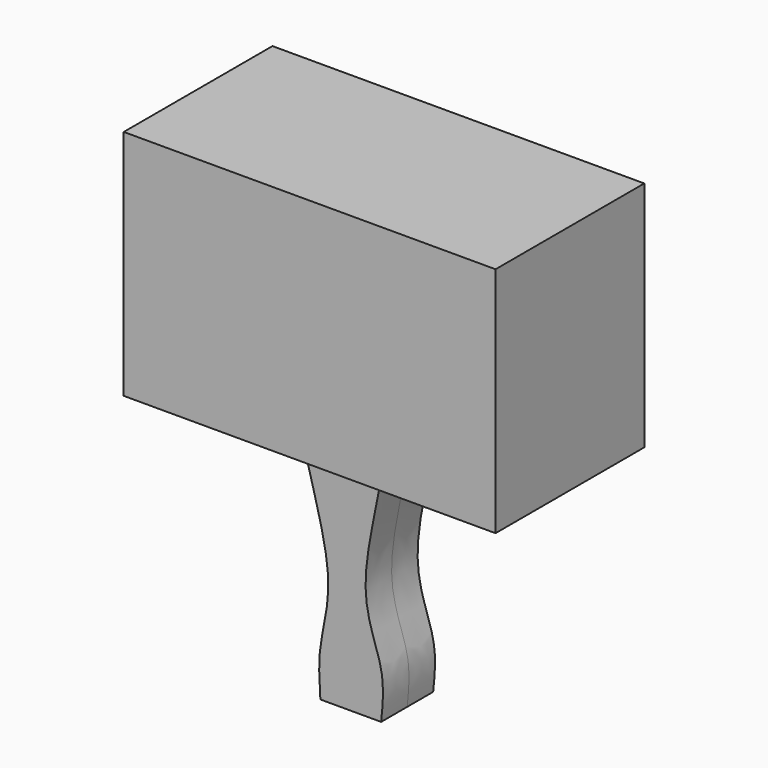
from build123d import *

# Parameters (mm, degrees)
F0_W     = 101.6
F0_H     = 63.5
F1_DEPTH = 25.4
F3_DEPTH = 8.89


with BuildPart() as f1:
    # F0 (on Front) → F1 (new body, symmetric)
    with BuildSketch(Plane.XZ):
        with Locations((3.6907419562, 36.763894998)):
            Rectangle(F0_W, F0_H)
    extrude(amount=F1_DEPTH, both=True)


with BuildPart() as f3:
    # F2 (on Front) → F3 (new body, symmetric)
    with BuildSketch(Plane.XZ):
        with BuildLine():
            add(Edge.make_bspline(
                [(-6.5906089731, -61.5562945604), (-6.869877019, -57.3955077066), (-7.4802571778, -48.3015144021), (-1.7323887404, -31.5014617866), (-11.181030102, -4.1518582406), (-11.8887224777, 3.8370416102), (-11.8676509499, 4.4754442135), (-11.8630966172, 4.613426514)],
                knots=[0, 0, 0, 0, 0.2151347769, 0.4702077489, 0.7968221934, 0.9560857976, 1, 1, 1, 1], degree=3))
            Line((-6.5906089731, -61.5562945604), (10.017728433, -61.5562945604))
            add(Edge.make_bspline(
                [(10.017728433, -61.5562945604), (10.4498633138, -57.3538586055), (11.3960075952, -48.1527713451), (2.4820057503, -32.2066136134), (10.9715005253, -3.2115927021), (10.2592462008, 2.828814376), (10.017728433, 4.8770513386)],
                knots=[0, 0, 0, 0, 0.2231282199, 0.4885314716, 0.8265665324, 1, 1, 1, 1], degree=3))
            Line((10.017728433, 4.8770513386), (-11.8630966172, 4.613426514))
        make_face()
    extrude(amount=F3_DEPTH, both=True)


solid = Compound([f1.part, f3.part])
